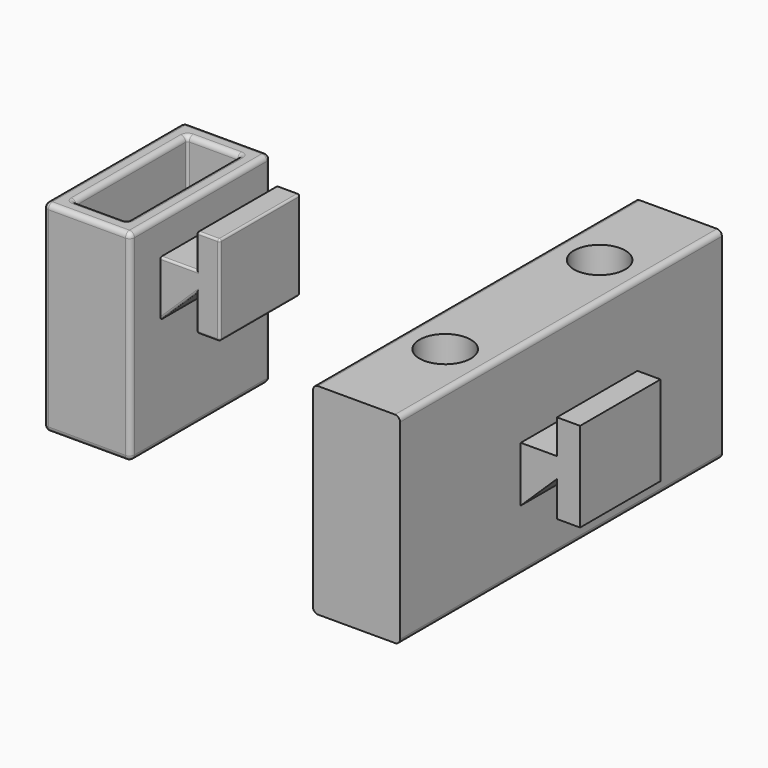
from build123d import *

# Parameters (mm, degrees)
F1_DEPTH      = 12.7
F3_DEPTH      = 17.4244
F3_DEPTH_BACK = 4.7244
F5_DEPTH      = 25.401
F7_DEPTH      = 12.7
F9_DEPTH      = 19.05
F9_DEPTH_BACK = 31.75
F10_R         = 3.2385
F11_DEPTH     = 25.784305759
F12_R         = 0.635
F13_R         = 0.254
F14_R         = 0.254
F15_R         = 0.635


with BuildPart() as f1:
    # F0 (on Front) → F1 (new body)
    with BuildSketch(Plane.XZ):
        Polygon((-2.921, 0), (0, 0), (0, 11.303), (-2.921, 11.303), (-2.921, 6.985), (-7.493, 6.985), (-7.493, 0), (-2.921, 4.445), align=None)
    extrude(amount=F1_DEPTH)

    # F2 (on face) → F3 (join, two sides)
    with BuildSketch(Plane(origin=(0, 0, 0), x_dir=(-1, 0, 0), z_dir=(0, 1, 0))) as f3_sk:
        with BuildLine():
            Line((7.493, 10.795), (7.493, 0))
            Line((7.493, 0), (7.493, -13.335))
            ThreePointArc((7.493, -13.335), (7.6789871939, -13.7840128061), (8.128, -13.97))
            Line((8.128, -13.97), (17.8435, -13.97))
            ThreePointArc((17.8435, -13.97), (18.2925128061, -13.7840128061), (18.4785, -13.335))
            Line((18.4785, -13.335), (18.4785, 10.795))
            ThreePointArc((18.4785, 10.795), (18.2925128061, 11.2440128061), (17.8435, 11.43))
            Line((17.8435, 11.43), (8.128, 11.43))
            ThreePointArc((8.128, 11.43), (7.6789871939, 11.2440128061), (7.493, 10.795))
        make_face()
    extrude(amount=-F3_DEPTH)
    extrude(f3_sk.sketch, amount=F3_DEPTH_BACK)

    # F4 (on face) → F5 (cut, through all)
    with BuildSketch(Plane.XY.offset(11.43)):
        with BuildLine():
            Line((-9.9441, 2.54), (-16.0401, 2.54))
            ThreePointArc((-16.0401, 2.54), (-16.2197051224, 2.4656051224), (-16.2941, 2.286))
            Line((-16.2941, 2.286), (-16.2941, -14.986))
            ThreePointArc((-16.2941, -14.986), (-16.2197051224, -15.1656051224), (-16.0401, -15.24))
            Line((-16.0401, -15.24), (-9.9441, -15.24))
            ThreePointArc((-9.9441, -15.24), (-9.7644948776, -15.1656051224), (-9.6901, -14.986))
            Line((-9.6901, -14.986), (-9.6901, 2.286))
            ThreePointArc((-9.6901, 2.286), (-9.7644948776, 2.4656051224), (-9.9441, 2.54))
        make_face()
    extrude(amount=-F5_DEPTH, mode=Mode.SUBTRACT)

    # F12
    f12_edges = [f1.edges().sort_by_distance(p)[0] for p in [
        (-18.4785, -17.4244, -1.27),
        (-18.4785, 4.7244, -1.27),
    ]]
    fillet(f12_edges, radius=F12_R)

    # F13
    f13_edges = [f1.edges().sort_by_distance(p)[0] for p in [
        (0, -6.35, 11.303),
        (0, -6.35, 0),
        (-2.921, -6.35, 11.303),
        (-2.921, -6.35, 0),
    ]]
    fillet(f13_edges, radius=F13_R)

    # F14
    f14_edges = [f1.edges().sort_by_distance(p)[0] for p in [
        (-1.4605, -12.7, 0),
        (-0.074395, -12.7, 0.074395),
        (-5.207, -12.7, 2.2225),
        (-5.207, -12.7, 6.985),
        (0, 0, 5.6515),
        (-5.207, 0, 2.2225),
        (-5.207, 0, 6.985),
    ]]
    fillet(f14_edges, radius=F14_R)

    # F15
    f15_edges = [f1.edges().sort_by_distance(p)[0] for p in [
        (-12.9921, 2.54, 11.43),
        (-9.6901, -6.35, -13.97),
    ]]
    fillet(f15_edges, radius=F15_R)


with BuildPart() as f7:
    # F6 (on Front) → F7 (new body)
    with BuildSketch(Plane.XZ):
        Polygon((42.5735553148, -5.8474665115), (45.4945553148, -5.8474665115), (45.4945553148, 5.4555334885), (42.5735553148, 5.4555334885), (42.5735553148, 1.1375334885), (38.0015553148, 1.1375334885), (38.0015553148, -5.8474665115), (42.5735553148, -1.4024665115), align=None)
    extrude(amount=F7_DEPTH)

    # F8 (on face) → F9 (join, two sides)
    with BuildSketch(Plane.XZ.offset(12.7)) as f9_sk:
        with BuildLine():
            Line((27.0160553148, 11.178305759), (27.0160553148, 0.383305759))
            Line((27.0160553148, 0.383305759), (27.0160553148, -12.951694241))
            ThreePointArc((27.0160553148, -12.951694241), (27.2020425087, -13.400707047), (27.6510553148, -13.586694241))
            Line((27.6510553148, -13.586694241), (37.3665553148, -13.586694241))
            ThreePointArc((37.3665553148, -13.586694241), (37.8155681208, -13.400707047), (38.0015553148, -12.951694241))
            Line((38.0015553148, -12.951694241), (38.0015553148, 11.178305759))
            ThreePointArc((38.0015553148, 11.178305759), (37.8155681208, 11.6273185651), (37.3665553148, 11.813305759))
            Line((37.3665553148, 11.813305759), (27.6510553148, 11.813305759))
            ThreePointArc((27.6510553148, 11.813305759), (27.2020425087, 11.6273185651), (27.0160553148, 11.178305759))
        make_face()
    extrude(amount=F9_DEPTH)
    extrude(f9_sk.sketch, amount=-F9_DEPTH_BACK)

    # F10 (on face) → F11 (cut, through all)
    with BuildSketch(Plane.XY.offset(11.813305759)):
        with Locations((32.5024553148, 6.62030885)):
            Circle(F10_R)
        with Locations((32.5024553148, -17.7532714375)):
            Circle(F10_R)
    extrude(amount=-F11_DEPTH, mode=Mode.SUBTRACT)


solid = Compound([f1.part, f7.part])
